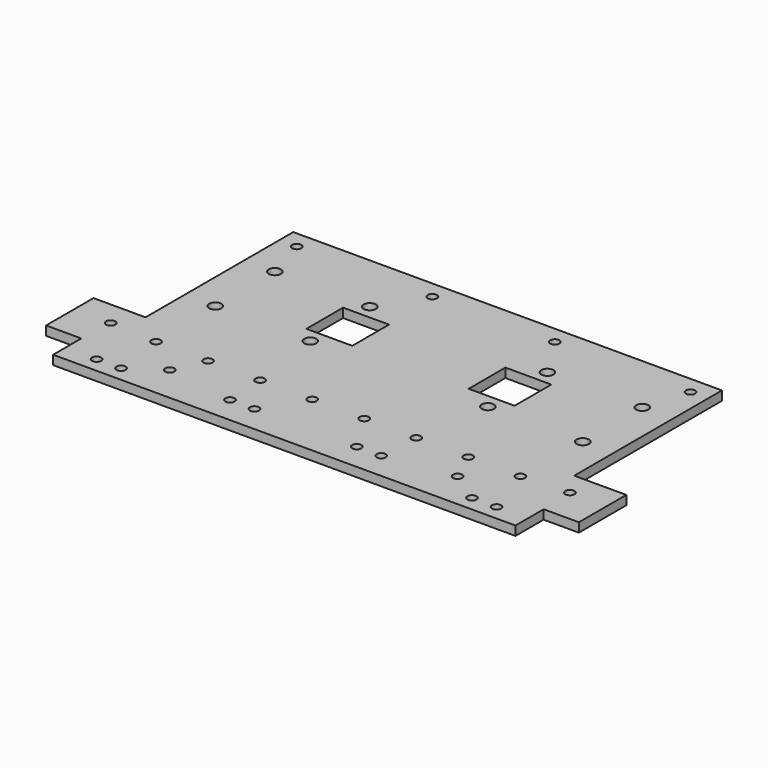
from build123d import *

# Parameters (mm, degrees)
SKETCH_R   = 2
SKETCH_R_2 = 1.5
PAD_DEPTH  = 3


with BuildPart() as part:
    # Sketch → Pad (new body)
    with BuildSketch(Plane.XY):
        Polygon((87, 0), (87, 91.15), (17, 91.15), (17, 30.85), (0, 30.85), (0, 11.5), (11.5, 11.5), (11.5, 0), align=None)
        with Locations((27, 71.15)):
            Circle(SKETCH_R, mode=Mode.SUBTRACT)
        with Locations((58, 71.15)):
            Circle(SKETCH_R, mode=Mode.SUBTRACT)
        with Locations((58, 46.85)):
            Circle(SKETCH_R, mode=Mode.SUBTRACT)
        with Locations((27, 46.85)):
            Circle(SKETCH_R, mode=Mode.SUBTRACT)
        with Locations((21.7, 5)):
            Circle(SKETCH_R_2, mode=Mode.SUBTRACT)
        with Locations((29.7, 5)):
            Circle(SKETCH_R_2, mode=Mode.SUBTRACT)
        with Locations((70.3, 8.7)):
            Circle(SKETCH_R_2, mode=Mode.SUBTRACT)
        with Locations((62.3, 8.7)):
            Circle(SKETCH_R_2, mode=Mode.SUBTRACT)
        with Locations((22.7, 85.45)):
            Circle(SKETCH_R_2, mode=Mode.SUBTRACT)
        with Locations((67, 85.45)):
            Circle(SKETCH_R_2, mode=Mode.SUBTRACT)
        with Locations((27.5, 22)):
            Circle(SKETCH_R_2, mode=Mode.SUBTRACT)
        with Locations((44.5, 22)):
            Circle(SKETCH_R_2, mode=Mode.SUBTRACT)
        with Locations((61.5, 22)):
            Circle(SKETCH_R_2, mode=Mode.SUBTRACT)
        with Locations((78.5, 22)):
            Circle(SKETCH_R_2, mode=Mode.SUBTRACT)
        with Locations((12, 22.85)):
            Circle(SKETCH_R_2, mode=Mode.SUBTRACT)
        with Locations((40, 12)):
            Circle(SKETCH_R_2, mode=Mode.SUBTRACT)
        Polygon((68, 59), (68, 66.5), (53, 66.5), (53, 51.5), (68, 51.5), align=None, mode=Mode.SUBTRACT)
    pad = extrude(amount=PAD_DEPTH)

    # Mirrored: Pad across face of Pad
    add(pad.mirror(Plane(origin=(87, 45.575, 1.5), x_dir=(0, 1, 0), z_dir=(1, 0, 0))))


solid = part.part
